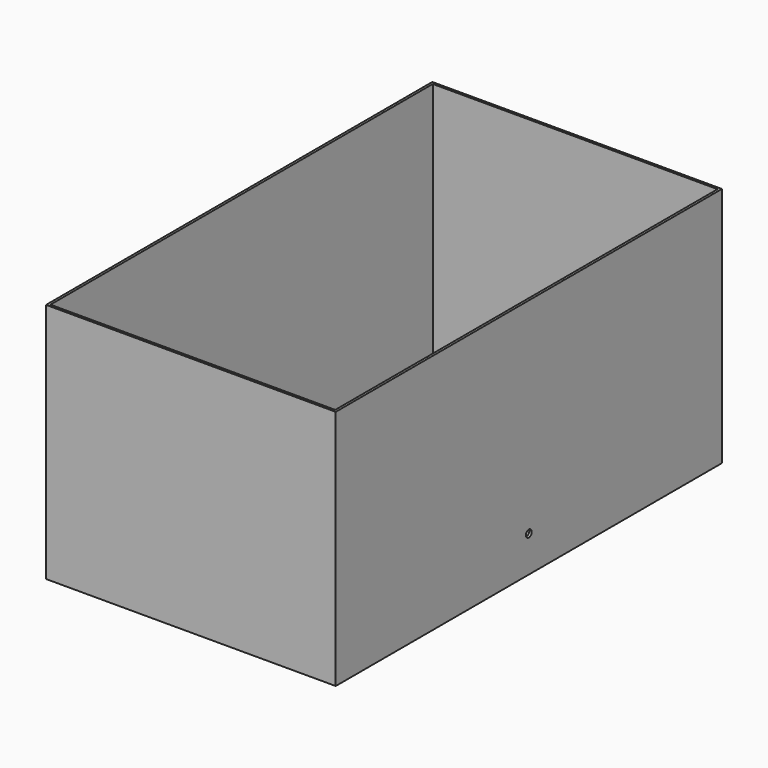
from build123d import *

# Parameters (mm, degrees)
F0_W     = 120
F0_H     = 200
F1_DEPTH = 100
F2_T     = -1
F3_R     = 1.5
F4_DEPTH = 130


with BuildPart() as f1:
    # F0 (on Top) → F1 (new body)
    with BuildSketch(Plane.XY):
        Rectangle(F0_W, F0_H)
    extrude(amount=F1_DEPTH)

    # F2
    f2_openings = [f1.faces().sort_by_distance(p)[0] for p in [
        (0, 0, 100),
    ]]
    offset(amount=F2_T, openings=f2_openings)

    # F3 (on face) → F4 (cut)
    with BuildSketch(Plane(origin=(-60, 0, 0), x_dir=(0, -1, 0), z_dir=(-1, 0, 0))):
        with Locations((0, 15)):
            Circle(F3_R)
    extrude(amount=-F4_DEPTH, mode=Mode.SUBTRACT)


solid = f1.part
